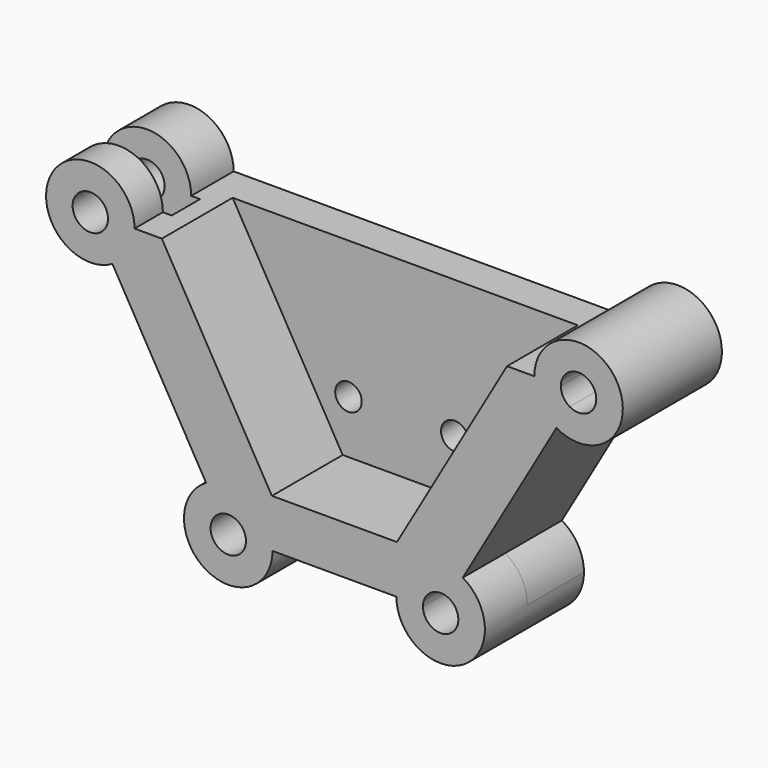
from build123d import *

# Parameters (mm, degrees)
F1_DEPTH  = 50.8
F3_DEPTH  = 76.2
F4_R      = 38.1
F1_FACE_R = 12.7
F5_DEPTH  = 12.7
F6_R      = 9.525
F6_R_2    = 9.7843029872
F7_DEPTH  = 25.401


with BuildPart() as f1:
    # F0 (on Front) → F1 (new body, symmetric)
    with BuildSketch(Plane.XZ):
        with BuildLine():
            ThreePointArc((-130.8751894546, 96.1189323328), (-190.1214960247, 111.9939323328), (-146.7501894546, 68.6226257627))
            Line((-146.7501894546, 68.6226257627), (-156.2751894546, 85.1204097048))
            ThreePointArc((-156.2751894546, 85.1204097048), (-173.6237120826, 102.4689323328), (-149.9251894546, 96.1189323328))
            Line((-149.9251894546, 96.1189323328), (-130.8751894546, 96.1189323328))
        make_face()
        with BuildLine():
            Line((-156.2751894546, 85.1204097048), (-146.7501894546, 68.6226257627))
            ThreePointArc((-146.7501894546, 68.6226257627), (-135.1288828844, 80.2439323328), (-130.8751894546, 96.1189323328))
            Line((-130.8751894546, 96.1189323328), (-149.9251894546, 96.1189323328))
            ThreePointArc((-149.9251894546, 96.1189323328), (-151.6266668265, 89.7689323328), (-156.2751894546, 85.1204097048))
        make_face()
        with BuildLine():
            Line((181.3982178505, 85.1204097048), (171.8732178505, 68.6226257627))
            ThreePointArc((171.8732178505, 68.6226257627), (203.6232178505, 68.6226257627), (219.4982178505, 96.1189323328))
            ThreePointArc((219.4982178505, 96.1189323328), (187.7482178505, 127.8689323328), (155.9982178505, 96.1189323328))
            Line((155.9982178505, 96.1189323328), (175.0482178505, 96.1189323328))
            ThreePointArc((175.0482178505, 96.1189323328), (187.7482178505, 108.8189323328), (200.4482178505, 96.1189323328))
            ThreePointArc((200.4482178505, 96.1189323328), (194.0982178505, 85.1204097048), (181.3982178505, 85.1204097048))
        make_face()
        with BuildLine():
            ThreePointArc((-79.513485802, -47.834761097), (-47.763485802, -47.834761097), (-31.888485802, -75.3310676672))
            Line((-31.888485802, -75.3310676672), (57.011514198, -75.3310676672))
            ThreePointArc((57.011514198, -75.3310676672), (72.886514198, -47.834761097), (104.636514198, -47.834761097))
            Line((104.636514198, -47.834761097), (171.8732178505, 68.6226257627))
            ThreePointArc((171.8732178505, 68.6226257627), (160.2519112804, 80.2439323328), (155.9982178505, 96.1189323328))
            Line((155.9982178505, 96.1189323328), (-130.8751894546, 96.1189323328))
            ThreePointArc((-130.8751894546, 96.1189323328), (-135.1288828844, 80.2439323328), (-146.7501894546, 68.6226257627))
            Line((-146.7501894546, 68.6226257627), (-79.513485802, -47.834761097))
        make_face()
        with BuildLine():
            Line((76.061514198, -75.3310676672), (57.011514198, -75.3310676672))
            ThreePointArc((57.011514198, -75.3310676672), (88.761514198, -107.0810676672), (120.511514198, -75.3310676672))
            ThreePointArc((120.511514198, -75.3310676672), (116.2578207681, -59.4560676672), (104.636514198, -47.834761097))
            Line((104.636514198, -47.834761097), (95.111514198, -64.3325450391))
            ThreePointArc((95.111514198, -64.3325450391), (99.760036826, -68.9810676672), (101.461514198, -75.3310676672))
            ThreePointArc((101.461514198, -75.3310676672), (88.761514198, -88.0310676672), (76.061514198, -75.3310676672))
        make_face()
        with BuildLine():
            ThreePointArc((104.636514198, -47.834761097), (72.886514198, -47.834761097), (57.011514198, -75.3310676672))
            Line((57.011514198, -75.3310676672), (76.061514198, -75.3310676672))
            ThreePointArc((76.061514198, -75.3310676672), (82.411514198, -64.3325450391), (95.111514198, -64.3325450391))
            Line((95.111514198, -64.3325450391), (104.636514198, -47.834761097))
        make_face()
        with BuildLine():
            Line((-31.888485802, -75.3310676672), (-50.938485802, -75.3310676672))
            ThreePointArc((-50.938485802, -75.3310676672), (-69.988485802, -86.3295902952), (-69.988485802, -64.3325450391))
            Line((-69.988485802, -64.3325450391), (-79.513485802, -47.834761097))
            ThreePointArc((-79.513485802, -47.834761097), (-79.513485802, -102.8273742373), (-31.888485802, -75.3310676672))
        make_face()
        with BuildLine():
            ThreePointArc((-69.988485802, -64.3325450391), (-57.288485802, -64.3325450391), (-50.938485802, -75.3310676672))
            Line((-50.938485802, -75.3310676672), (-31.888485802, -75.3310676672))
            ThreePointArc((-31.888485802, -75.3310676672), (-47.763485802, -47.834761097), (-79.513485802, -47.834761097))
            Line((-79.513485802, -47.834761097), (-69.988485802, -64.3325450391))
        make_face()
        with BuildLine():
            ThreePointArc((155.9982178505, 96.1189323328), (160.2519112804, 80.2439323328), (171.8732178505, 68.6226257627))
            Line((171.8732178505, 68.6226257627), (181.3982178505, 85.1204097048))
            ThreePointArc((181.3982178505, 85.1204097048), (176.7496952225, 89.7689323328), (175.0482178505, 96.1189323328))
            Line((175.0482178505, 96.1189323328), (155.9982178505, 96.1189323328))
        make_face()
    extrude(amount=F1_DEPTH, both=True)

    # F2 (on face) → F3 (cut)
    with BuildSketch(Plane.XZ.offset(50.8)):
        Polygon((136.4217789196, 96.1189323328), (-111.2987505236, 96.1189323328), (-32.3154252183, -40.6842000468), (57.4384536142, -40.6842000468), align=None)
    extrude(amount=-F3_DEPTH, mode=Mode.SUBTRACT)

    # F4 (on Front) + F1_face (on face) → F5 (cut, symmetric)
    with BuildSketch(Plane.XZ):
        with Locations((-162.6251894546, 96.1189323328)):
            Circle(F4_R)
    with BuildSketch(Plane(origin=(12.561514198, -50.8, 21.3503423812), x_dir=(1, 0, 0), z_dir=(0, -1, 0))):
        with BuildLine():
            Line((-123.8602647216, 74.7685899517), (-143.4367036526, 74.7685899517))
            ThreePointArc((-143.4367036526, 74.7685899517), (-202.6830102227, 90.6435899517), (-159.3117036526, 47.2722833815))
            Line((-159.3117036526, 47.2722833815), (-92.075, -69.1851034782))
            ThreePointArc((-92.075, -69.1851034782), (-92.075, -124.1777166185), (-44.45, -96.6814100483))
            Line((-44.45, -96.6814100483), (44.45, -96.6814100483))
            ThreePointArc((44.45, -96.6814100483), (92.075, -124.1777166185), (92.075, -69.1851034782))
            Line((92.075, -69.1851034782), (159.3117036526, 47.2722833815))
            ThreePointArc((159.3117036526, 47.2722833815), (202.6830102227, 90.6435899517), (143.4367036526, 74.7685899517))
            Line((143.4367036526, 74.7685899517), (123.8602647216, 74.7685899517))
            Line((123.8602647216, 74.7685899517), (44.8769394163, -62.0345424279))
            Line((44.8769394163, -62.0345424279), (-44.8769394163, -62.0345424279))
            Line((-44.8769394163, -62.0345424279), (-123.8602647216, 74.7685899517))
        make_face()
        with Locations((-76.2, -96.6814100483)):
            Circle(F1_FACE_R, mode=Mode.SUBTRACT)
        with Locations((76.2, -96.6814100483)):
            Circle(F1_FACE_R, mode=Mode.SUBTRACT)
        with Locations((-175.1867036526, 74.7685899517)):
            Circle(F1_FACE_R, mode=Mode.SUBTRACT)
        with Locations((175.1867036526, 74.7685899517)):
            Circle(F1_FACE_R, mode=Mode.SUBTRACT)
    extrude(amount=F5_DEPTH, both=True, mode=Mode.SUBTRACT)

    # F6 (on face) → F7 (cut, through all)
    with BuildSketch(Plane.XZ.offset(-25.4)):
        with Locations((-28.1673731094, -2.5842000468)):
            Circle(F6_R)
        with Locations((48.0326268906, -2.5842000468)):
            Circle(F6_R_2)
    extrude(amount=-F7_DEPTH, mode=Mode.SUBTRACT)


solid = f1.part
